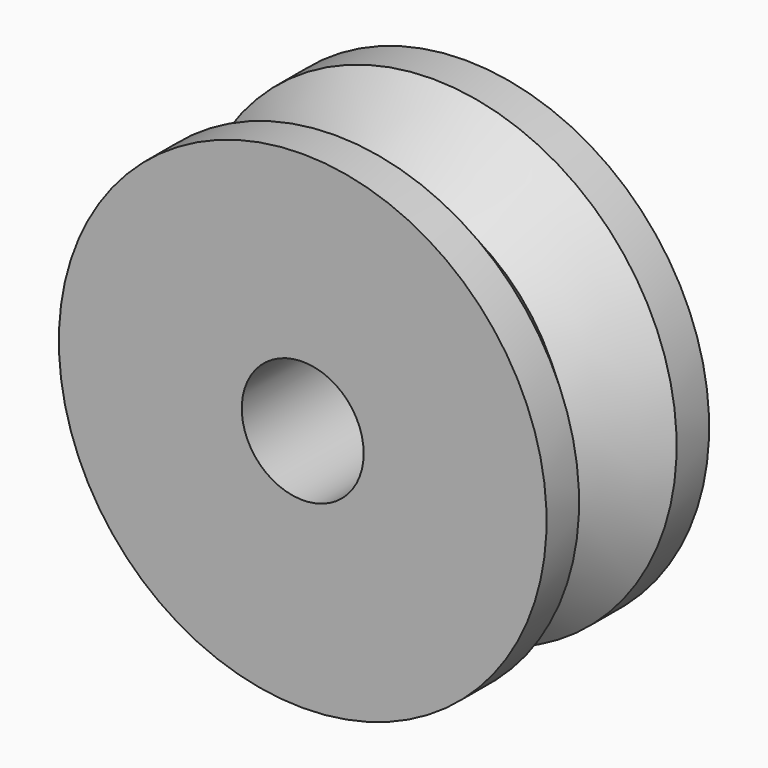
from build123d import *

# Parameters (mm, degrees)
F2_R     = 15
F3_DEPTH = 50


with BuildPart() as f1:
    # F0 (on Right) → F1 (revolve)
    with BuildSketch(Plane.YZ):
        Polygon((15, 15), (0, 0), (-15, 15), (-25, 15), (-25, -45), (25, -45), (25, 15), align=None)
    revolve(axis=Axis((0, 0, -45), (0, 1, 0)))

    # F2 (on face) → F3 (cut)
    with BuildSketch(Plane.XZ.offset(25)):
        with Locations((0, -45)):
            Circle(F2_R)
    extrude(amount=-F3_DEPTH, mode=Mode.SUBTRACT)


solid = f1.part
